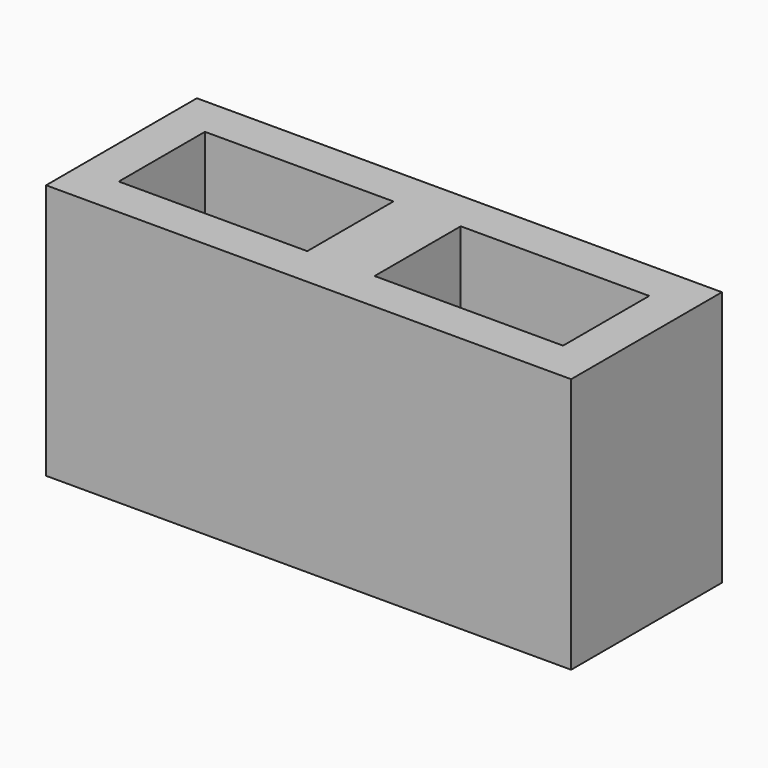
from build123d import *

# Parameters (mm, degrees)
BOX017_W     = 140
BOX017_H     = 80
BOX017_DEPTH = 190
BOX018_W     = 140
BOX018_H     = 80
BOX018_DEPTH = 190
BOX019_W     = 390
BOX019_H     = 140
BOX019_DEPTH = 190


with BuildPart() as cube007:
    # Box017 → Box017 (new body)
    with BuildSketch(Plane(origin=(220, 30, 0), x_dir=(1, 0, 0), z_dir=(0, 0, 1))):
        with Locations((70, 40)):
            Rectangle(BOX017_W, BOX017_H)
    extrude(amount=BOX017_DEPTH)


with BuildPart() as fusion005:
    # Box018 → Box018 (new body)
    with BuildSketch(Plane(origin=(30, 30, 0), x_dir=(1, 0, 0), z_dir=(0, 0, 1))):
        with Locations((70, 40)):
            Rectangle(BOX018_W, BOX018_H)
    extrude(amount=BOX018_DEPTH)

    # Fusion005: union Cube007
    add(cube007.part)


with BuildPart() as cut002:
    # Box019 → Box019 (new body)
    with BuildSketch(Plane.XY):
        with Locations((195, 70)):
            Rectangle(BOX019_W, BOX019_H)
    extrude(amount=BOX019_DEPTH)

    # Cut002: cut Fusion005
    add(fusion005.part, mode=Mode.SUBTRACT)


with BuildPart() as cut002_1:
    # Cut002 placement: moved
    add(cut002.part.moved(Location((230, -205, -390))))


solid = cut002_1.part
